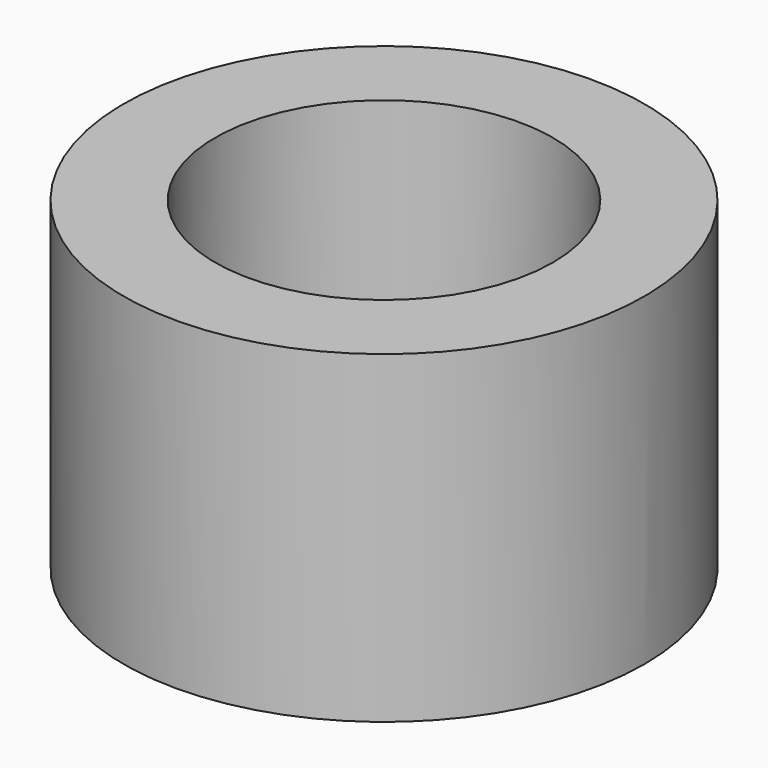
from build123d import *

# Parameters (mm, degrees)
CYLINDER031_R               = 5
CYLINDER031_DEPTH           = 3
CYLINDER028_R               = 9.25
CYLINDER028_DEPTH           = 3
CYLINDER029_R               = 6
CYLINDER029_DEPTH           = 9
CYLINDER030_R               = 9.25
CYLINDER030_DEPTH           = 9
CYLINDER030_PLACEMENT_ANGLE = 1


with BuildPart() as smallplughole:
    # Cylinder031 → Cylinder031 (new body)
    with BuildSketch(Plane.XY):
        Circle(CYLINDER031_R)
    extrude(amount=CYLINDER031_DEPTH)


with BuildPart() as smallplugbas:
    # Cylinder028 → Cylinder028 (new body)
    with BuildSketch(Plane.XY):
        Circle(CYLINDER028_R)
    extrude(amount=CYLINDER028_DEPTH)

    # Cut011: cut SmallPlugHole
    add(smallplughole.part, mode=Mode.SUBTRACT)


with BuildPart() as smallplugwallhole:
    # Cylinder029 → Cylinder029 (new body)
    with BuildSketch(Plane.XY.offset(2.5)):
        Circle(CYLINDER029_R)
    extrude(amount=CYLINDER029_DEPTH)


with BuildPart() as obj1:
    # Cylinder030 → Cylinder030 (new body)
    with BuildSketch(Plane.XY):
        Circle(CYLINDER030_R)
    extrude(amount=CYLINDER030_DEPTH)


with BuildPart() as obj1_1:
    # Cylinder030 placement: moved
    add(obj1.part.moved(Location((0, 0, 2.5))).rotate(Axis((0, 0, 2.5), (0, 0, 1)), CYLINDER030_PLACEMENT_ANGLE))

    # Cut010: cut SmallPlugWallHole
    add(smallplugwallhole.part, mode=Mode.SUBTRACT)

    # Fusion023: union SmallPlugBas
    add(smallplugbas.part)


with BuildPart() as obj1_2:
    # Fusion023 placement: moved
    add(obj1_1.part.moved(Location((54, -192.254, 94))))


solid = obj1_2.part
